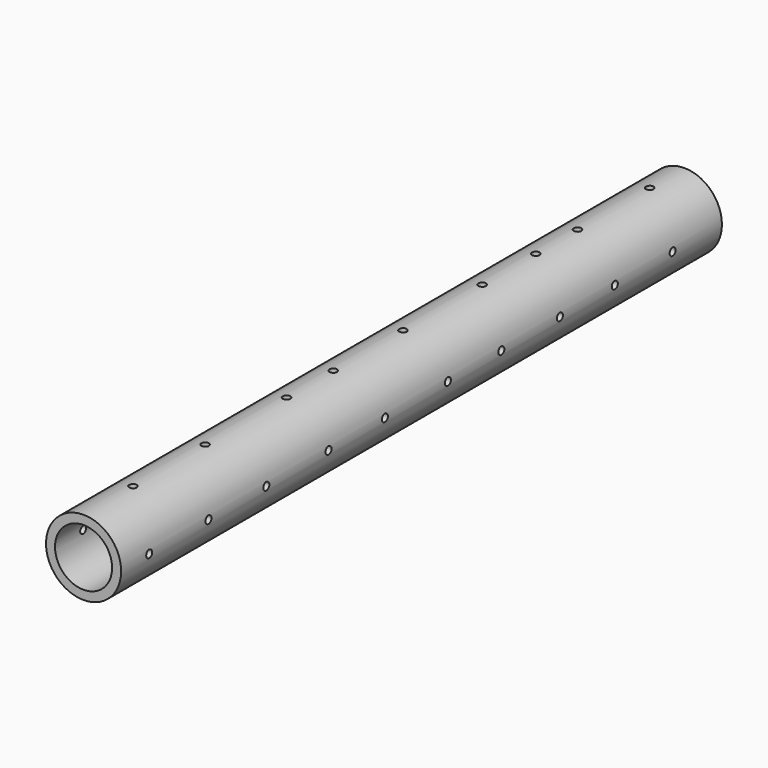
from build123d import *

# Parameters (mm, degrees)
F0_R     = 12.7
F1_DEPTH = 254
F3_D     = 19.304
F5_D     = 2.54
F7_D     = 2.54


with BuildPart() as f1:
    # F0 (on Front) → F1 (new body)
    with BuildSketch(Plane.XZ):
        with Locations((-39.6181046963, 26.773173362)):
            Circle(F0_R)
    extrude(amount=F1_DEPTH)

    # F3 (through all)
    with Locations(Plane.XZ.offset(254)):
        with Locations((-39.6181046963, 26.773173362)):
            Hole(F3_D / 2)

    # F5 (through all)
    with Locations(Plane(origin=(0, 0, 0), x_dir=(1, 0, 0), z_dir=(0, 0, -1))):
        with Locations((-39.6810844541, 233.0599427223), (-39.6810844541, 202.555462718), (-39.6810844541, 168.114900589), (-39.6810844541, 148.4345942736), (-39.6810844541, 118.9141124487), (-39.6810844541, 85.4575783014), (-39.6810844541, 62.8252103925), (-39.6810844541, 45.112926513), (-39.6810844541, 14.6084362641)):
            Hole(F5_D / 2)

    # F7 (through all)
    with Locations(Plane.YZ):
        with Locations((-192.5880163908, 27.0826891065), (-166.2791222334, 27.0826891065), (-142.4463540316, 27.0826891065), (-115.8279329538, 27.0826891065), (-93.2332351804, 27.0826891065), (-68.4719160199, 27.0826891065), (-45.2581830323, 27.0826891065), (-20.8063833416, 27.0826891065), (-217.0398086309, 27.0826891065), (-242.1106398106, 27.0826891065)):
            Hole(F7_D / 2)


solid = f1.part
